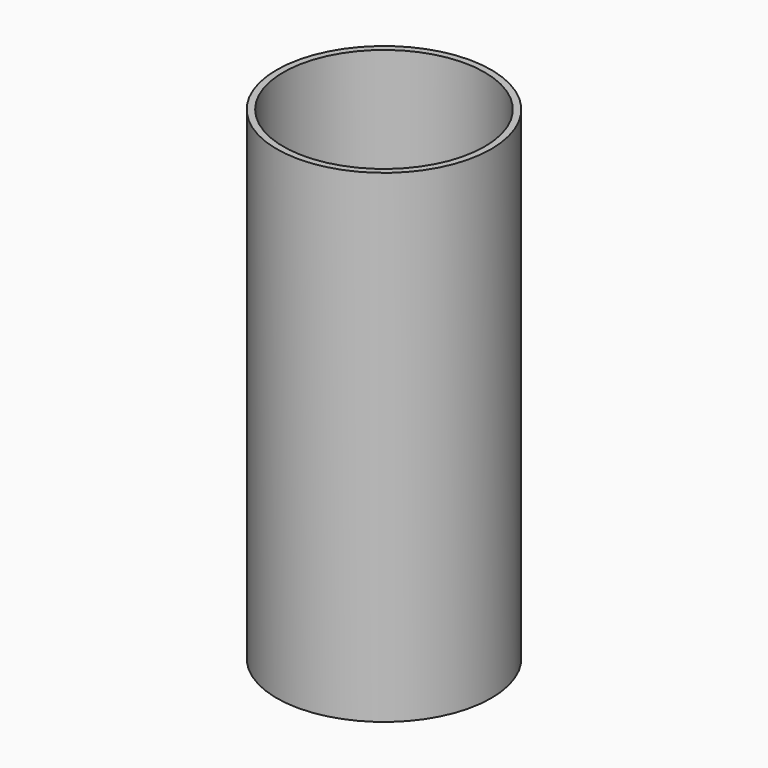
from build123d import *

# Parameters (mm, degrees)
SKETCH_R   = 16.2
SKETCH_R_2 = 15.2
PAD_DEPTH  = 73


with BuildPart() as part:
    # Sketch → Pad (new body)
    with BuildSketch(Plane.XY):
        Circle(SKETCH_R)
        Circle(SKETCH_R_2, mode=Mode.SUBTRACT)
    extrude(amount=PAD_DEPTH)


solid = part.part
